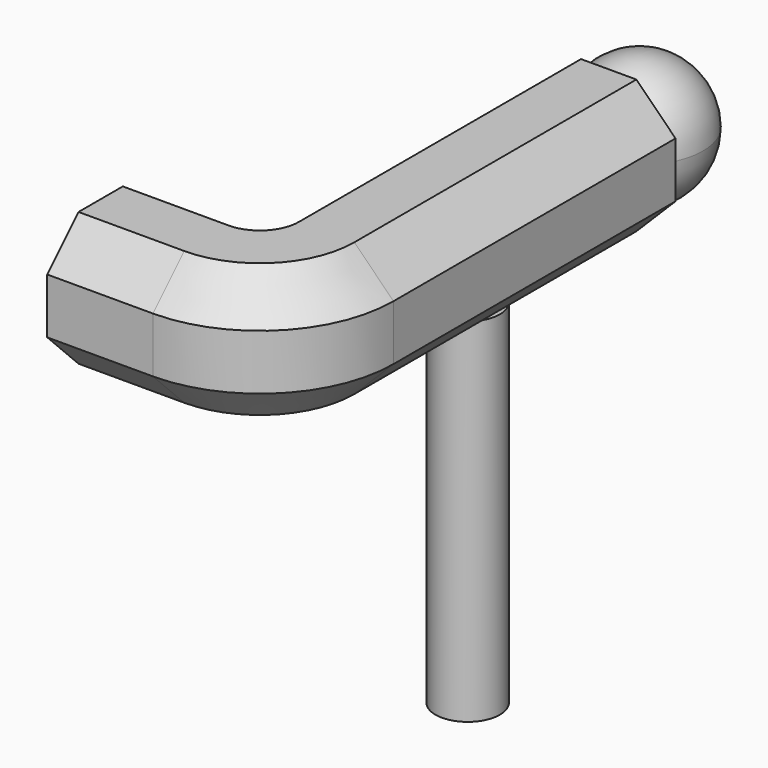
from build123d import *

# Parameters (mm, degrees)
F0_R          = 4.6355
F1_DEPTH      = 50.8
F2_D          = 8.4328
F2_DEPTH      = 38.1
F2_TIP        = 2.5334687141
F4_DEPTH      = 25.4
F4_DEPTH_BACK = 25.4
F5_ANGLE      = 90
F10_DEPTH     = 15.24


with BuildPart() as f1:
    # F0 (on Top) → F1 (new body)
    with BuildSketch(Plane.XY):
        Circle(F0_R)
    extrude(amount=F1_DEPTH)

    # F2
    with Locations(Plane(origin=(0, 0, 0), x_dir=(1, 0, 0), z_dir=(0, 0, -1))):
        with Locations((0, 0)):
            Hole(F2_D / 2, depth=F2_DEPTH)
            with Locations((0, 0, -(F2_DEPTH + F2_TIP / 2))):  # 118° drill point
                Cone(0, F2_D / 2, F2_TIP, mode=Mode.SUBTRACT)

    # F3 (on Front) → F4 (join, two sides)
    with BuildSketch(Plane.XZ) as f4_sk:
        Polygon((-9.627444493, 56.439600844), (-3.987843649, 50.8), (3.987756351, 50.8), (9.627357195, 56.439600844), (9.627357195, 64.415200844), (3.987756351, 70.0548016881), (-4.3649e-05, 70.0548016881), (-3.987843649, 70.0548016881), (-9.627444493, 64.415200844), align=None)
    extrude(amount=F4_DEPTH)
    extrude(f4_sk.sketch, amount=-F4_DEPTH_BACK)

    # F4_face (on face) → F5 (revolve)
    with BuildSketch(Plane(origin=(-4.3649e-05, -25.4, 60.427400844), x_dir=(1, 0, 0), z_dir=(0, -1, 0))):
        Polygon((9.627400844, 3.9878), (3.9878, 9.627400844), (-3.9878, 9.627400844), (-9.627400844, 3.9878), (-9.627400844, -3.9878), (-3.9878, -9.627400844), (3.9878, -9.627400844), (9.627400844, -3.9878), align=None)
    revolve(axis=Axis((-9.627444493, -25.4, 60.427400844), (0, 0, -1)), revolution_arc=F5_ANGLE)

    # F7 (on Right) → F8 (revolve)
    with BuildSketch(Plane.YZ):
        with BuildLine():
            ThreePointArc((30.9212189168, 51.2608121409), (37.4040035408, 53.9460694541), (40.089260854, 60.4288540781))
            ThreePointArc((40.089260854, 60.4288540781), (37.4040035408, 66.911638702), (30.9212189168, 69.5968960152))
            Line((30.9212189168, 69.5968960152), (30.9212189168, 60.4288540781))
            Line((30.9212189168, 60.4288540781), (30.9212189168, 51.2608121409))
        make_face()
    revolve(axis=Axis((0, 30.9212189168, 60.4288540781), (0, 0, -1)))

    # F9 (on face) → F10 (join)
    with BuildSketch(Plane(origin=(-9.627444493, 0, 0), x_dir=(0, -1, 0), z_dir=(-1, 0, 0))):
        Polygon((31.039600844, 50.8), (39.015200844, 50.8), (44.6548016881, 56.439600844), (44.6548016881, 64.415200844), (39.015200844, 70.0548016881), (31.039600844, 70.0548016881), (25.4, 64.415200844), (25.4, 56.439600844), align=None)
    extrude(amount=F10_DEPTH)


solid = f1.part
